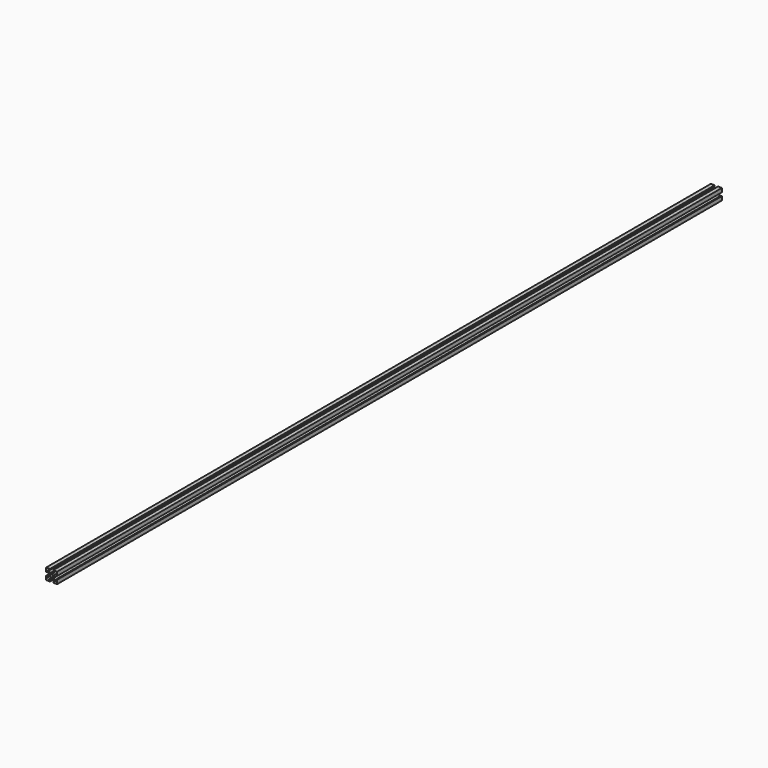
from build123d import *

# Parameters (mm, degrees)
F0_R     = 1.25
F1_DEPTH = 750


with BuildPart() as f1:
    # F0 (on Front) → F1 (new body)
    with BuildSketch(Plane.XZ):
        Circle(F0_R)
        Polygon((5, 5), (1.5, 5), (1.5, 4), (3, 4), (1, 2), (0, 2), (-1, 2), (-3, 4), (-1.5, 4), (-1.5, 5), (-5, 5), (-5, 1.5), (-4, 1.5), (-4, 3), (-2, 1), (-2, 0), (-2, -1), (-4, -3), (-4, -1.5), (-5, -1.5), (-5, -5), (-1.5, -5), (-1.5, -4), (-3, -4), (-1, -2), (0, -2), (1, -2), (3, -4), (1.5, -4), (1.5, -5), (5, -5), (5, -1.5), (4, -1.5), (4, -3), (2, -1), (2, 0), (2, 1), (4, 3), (4, 1.5), (5, 1.5), align=None)
        Circle(F0_R, mode=Mode.SUBTRACT)
    extrude(amount=F1_DEPTH)


solid = f1.part
